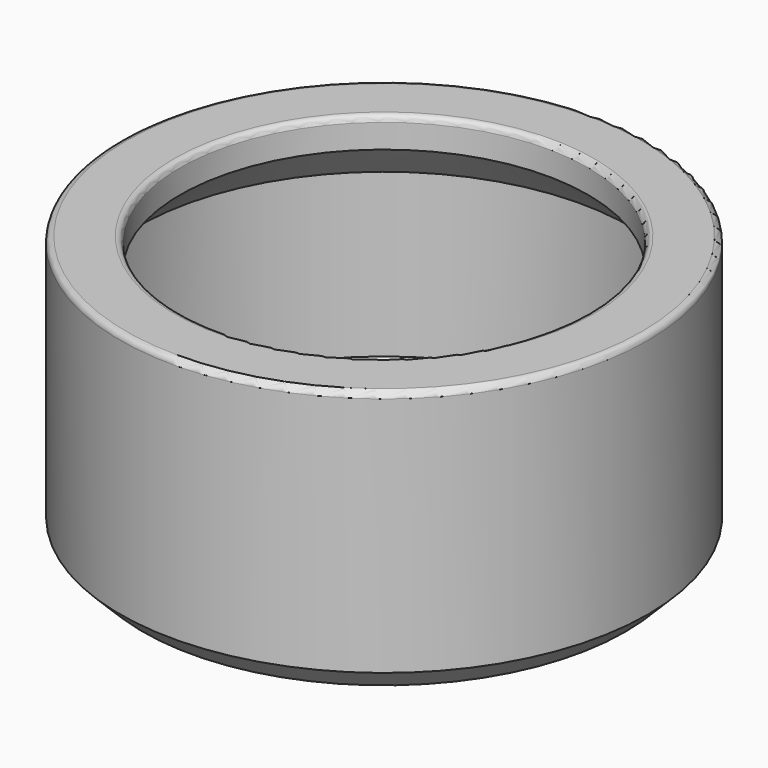
from build123d import *

# Parameters (mm, degrees)
SKETCH_R         = 44
SKETCH_R_2       = 30
PAD_DEPTH        = 5
SKETCH001_R      = 44
SKETCH001_R_2    = 41
PAD001_DEPTH     = 35
SKETCH002_R      = 44
SKETCH002_R_2    = 34
PAD002_DEPTH     = 5
HOLE_D           = 3.6
HOLE_DEPTH       = 5
HOLE_CBORE_D     = 6.2
HOLE_CBORE_DEPTH = 3
CHAMFER_SIZE     = 6.9
FILLET_R         = 1
CHAMFER001_SIZE  = 1
CHAMFER002_SIZE  = 3.8
FILLET001_R      = 3
CHAMFER003_SIZE  = 0.2


with BuildPart() as part:
    # Sketch → Pad (new body)
    with BuildSketch(Plane.XY):
        Circle(SKETCH_R)
        Circle(SKETCH_R_2, mode=Mode.SUBTRACT)
    extrude(amount=PAD_DEPTH)

    # Sketch001 (on DatumPlane) → Pad001 (join)
    with BuildSketch(Plane.XY.offset(5)):
        Circle(SKETCH001_R)
        Circle(SKETCH001_R_2, mode=Mode.SUBTRACT)
    extrude(amount=PAD001_DEPTH)

    # Sketch002 (on DatumPlane) → Pad002 (join)
    with BuildSketch(Plane.XY.offset(40)):
        Circle(SKETCH002_R)
        Circle(SKETCH002_R_2, mode=Mode.SUBTRACT)
    extrude(amount=PAD002_DEPTH)

    # Hole
    with Locations(Plane.XY.offset(5)):
        with Locations((-36.6, 0), (18.3, 31.69653), (18.3, -31.69653)):
            CounterBoreHole(HOLE_D / 2, HOLE_CBORE_D / 2, HOLE_CBORE_DEPTH, depth=HOLE_DEPTH)

    # Chamfer
    chamfer_edges = [part.edges().sort_by_distance(p)[0] for p in [
        (-41, 0, 40),
    ]]
    chamfer(chamfer_edges, length=CHAMFER_SIZE)

    # Fillet
    fillet_edges = [part.edges().sort_by_distance(p)[0] for p in [
        (-34, 0, 45),
        (-44, 0, 45),
    ]]
    fillet(fillet_edges, radius=FILLET_R)

    # Chamfer001
    chamfer001_edges = [part.edges().sort_by_distance(p)[0] for p in [
        (-41, 0, 5),
    ]]
    chamfer(chamfer001_edges, length=CHAMFER001_SIZE)

    # Chamfer002
    chamfer002_edges = [part.edges().sort_by_distance(p)[0] for p in [
        (-44, 0, 0),
    ]]
    chamfer(chamfer002_edges, length=CHAMFER002_SIZE)

    # Fillet001
    fillet001_edges = [part.edges().sort_by_distance(p)[0] for p in [
        (-30, 0, 5),
    ]]
    fillet(fillet001_edges, radius=FILLET001_R)

    # Chamfer003
    chamfer003_edges = [part.edges().sort_by_distance(p)[0] for p in [
        (-30, 0, 0),
    ]]
    chamfer(chamfer003_edges, length=CHAMFER003_SIZE)


solid = part.part
